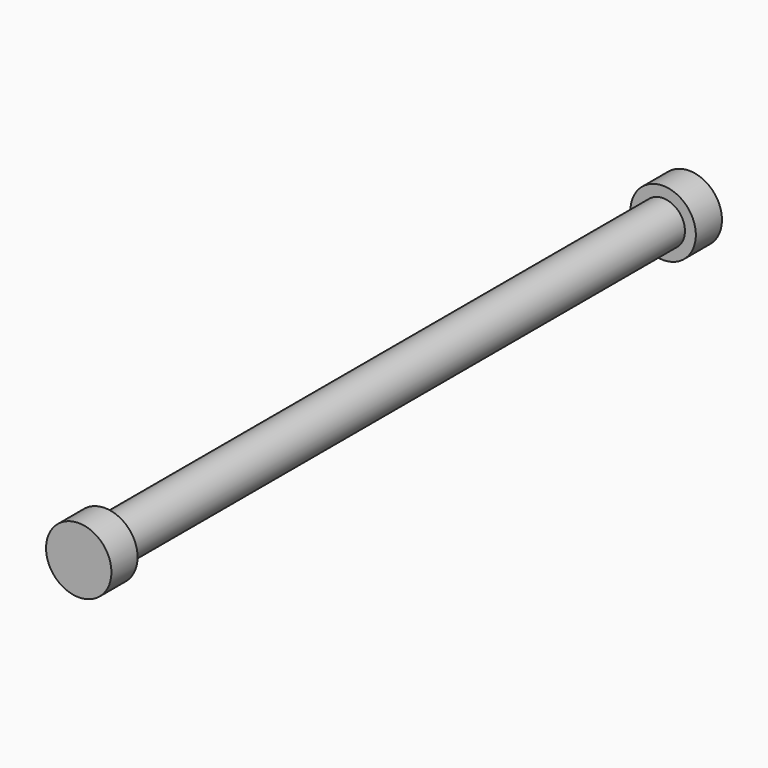
from build123d import *

# Parameters (mm, degrees)
F0_R     = 6.35
F1_DEPTH = 101.6
F2_R     = 9.525
F3_DEPTH = 9.525
F4_R     = 9.525
F5_DEPTH = 9.525


with BuildPart() as f1:
    # F0 (on Front) → F1 (new body, symmetric)
    with BuildSketch(Plane.XZ):
        Circle(F0_R)
    extrude(amount=F1_DEPTH, both=True)

    # F2 (on face) → F3 (join)
    with BuildSketch(Plane.XZ.offset(101.6)):
        Circle(F2_R)
    extrude(amount=F3_DEPTH)

    # F4 (on face) → F5 (join)
    with BuildSketch(Plane(origin=(0, 101.6, 0), x_dir=(-1, 0, 0), z_dir=(0, 1, 0))):
        Circle(F4_R)
    extrude(amount=F5_DEPTH)


solid = f1.part
